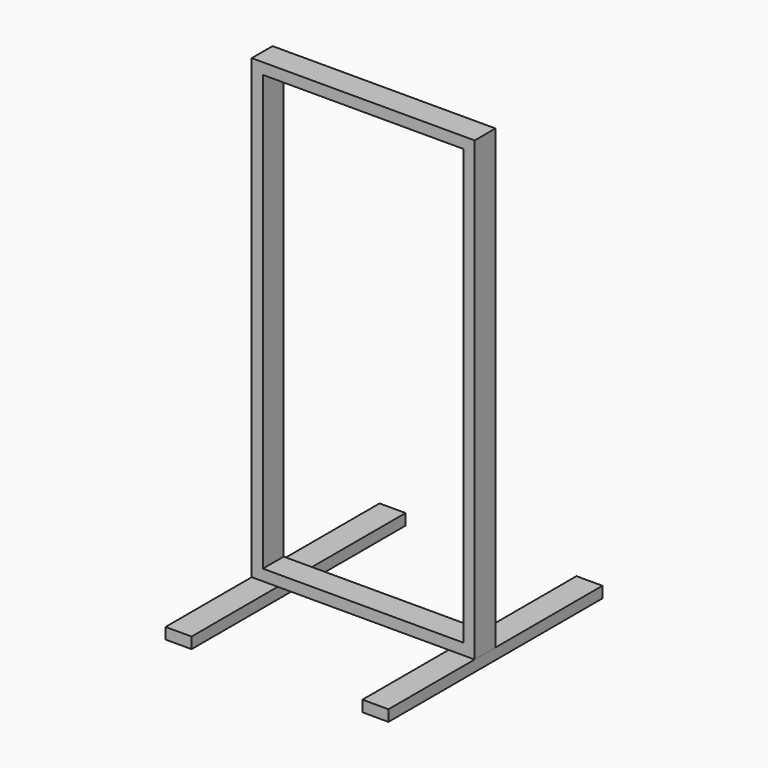
from build123d import *

# Parameters (mm, degrees)
F0_W     = 685.8
F0_H     = 38.1
F1_DEPTH = 88.9
F2_W     = 88.9
F2_H     = 368.3
F2_H_2   = 457.2
F2_H_3   = 88.9
F3_DEPTH = 38.1


with BuildPart() as f1:
    # F0 (on Front) → F1 (new body)
    with BuildSketch(Plane.XZ):
        Polygon((0, 38.1), (0, 0), (38.1, 0), (723.9, 0), (762, 0), (762, 38.1), align=None)
        Polygon((38.1, 0), (0, 0), (0, -1524), (38.1, -1524), (38.1, -1485.9), align=None)
        Polygon((762, 0), (723.9, 0), (723.9, -1485.9), (723.9, -1524), (762, -1524), align=None)
        with Locations((381, -1504.95)):
            Rectangle(F0_W, F0_H)
    extrude(amount=F1_DEPTH)


with BuildPart() as f3:
    # F2 (on face) → F3 (new body)
    with BuildSketch(Plane(origin=(0, 0, -1524), x_dir=(1, 0, 0), z_dir=(0, 0, -1))):
        with Locations((44.45, 273.05)):
            Rectangle(F2_W, F2_H)
        with Locations((44.45, -228.6)):
            Rectangle(F2_W, F2_H_2)
        with Locations((44.45, 44.45)):
            Rectangle(F2_W, F2_H_3)
        with Locations((717.55, -228.6)):
            Rectangle(F2_W, F2_H_2)
        with Locations((717.55, 44.45)):
            Rectangle(F2_W, F2_H_3)
        with Locations((717.55, 273.05)):
            Rectangle(F2_W, F2_H)
    extrude(amount=F3_DEPTH)


solid = Compound([f1.part, f3.part])
